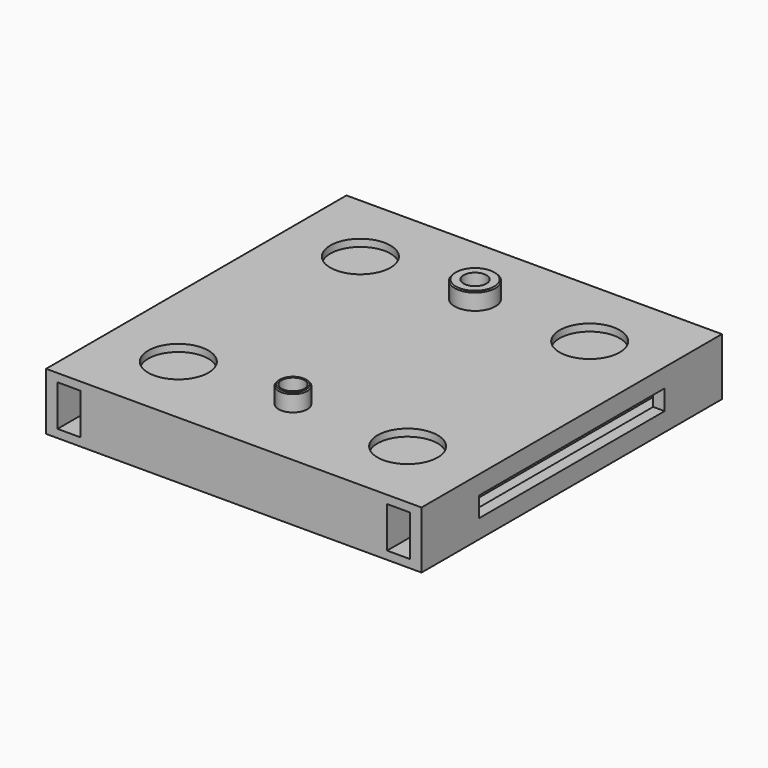
from build123d import *

# Parameters (mm, degrees)
SKETCH_W         = 65.5
SKETCH_H         = 65.5
PAD_DEPTH        = 10
SKETCH001_R      = 3.55
SKETCH001_R_2    = 2.5
PAD001_DEPTH     = 3
SKETCH002_R      = 2
POCKET_DEPTH     = 8
CHAMFER_SIZE     = 0.2
POCKET001_DEPTH  = 2.5
SKETCH004_W      = 40.5
SKETCH004_H      = 3.5
POCKET002_DEPTH  = 2
SKETCH005_W      = 40.5
SKETCH005_H      = 3.5
POCKET003_DEPTH  = 2
SKETCH006_W      = 65.5
SKETCH006_H      = 7.15
POCKET004_DEPTH  = 4
SKETCH007_W      = 65.5
SKETCH007_H      = 7.15
POCKET005_DEPTH  = 4
SKETCH008_R      = 0.925
POCKET006_DEPTH  = 2.15
CHAMFER001_SIZE2 = 0.25
CHAMFER001_SIZE  = 1
SKETCH009_R      = 5.25
POCKET007_DEPTH  = 1.25


with BuildPart() as part:
    # Sketch → Pad (new body)
    with BuildSketch(Plane.XY):
        Rectangle(SKETCH_W, SKETCH_H)
    extrude(amount=PAD_DEPTH)

    # Sketch001 (on Face6 of Pad) → Pad001 (join)
    with BuildSketch(Plane.XY.offset(10)):
        with Locations((0, 19.85)):
            Circle(SKETCH001_R)
        with Locations((0, -19.85)):
            Circle(SKETCH001_R_2)
    extrude(amount=PAD001_DEPTH)

    # Sketch002 (on Face10 of Pad001) → Pocket (cut)
    with BuildSketch(Plane.XY.offset(13)):
        with Locations((0, 19.85)):
            Circle(SKETCH002_R)
        with Locations((0, -19.85)):
            Circle(SKETCH002_R)
    extrude(amount=-POCKET_DEPTH, mode=Mode.SUBTRACT)

    # Chamfer
    chamfer_edges = [part.edges().sort_by_distance(p)[0] for p in [
        (-3.55, 19.85, 13),
        (-2.5, -19.85, 13),
    ]]
    chamfer(chamfer_edges, length=CHAMFER_SIZE)

    # Sketch003 (on DatumPlane) → Pocket001 (cut)
    with BuildSketch(Plane.XY.offset(5)):
        Polygon((-3.650297, 17.7425), (0, 15.635), (3.650297, 17.7425), (3.650297, 21.9575), (0, 24.065), (-3.650297, 21.9575), align=None)
        Polygon((-3.650297, -21.9575), (0, -24.065), (3.650297, -21.9575), (3.650297, -17.7425), (0, -15.635), (-3.650297, -17.7425), align=None)
    extrude(amount=-POCKET001_DEPTH, mode=Mode.SUBTRACT)

    # Sketch004 (on Face7 of Pocket001) → Pocket002 (cut)
    with BuildSketch(Plane.YZ.offset(32.75)):
        with Locations((0, 5)):
            Rectangle(SKETCH004_W, SKETCH004_H)
    extrude(amount=-POCKET002_DEPTH, mode=Mode.SUBTRACT)

    # Sketch005 (on Face6 of Pocket002) → Pocket003 (cut)
    with BuildSketch(Plane(origin=(-32.75, 0, 0), x_dir=(0, -1, 0), z_dir=(-1, 0, 0))):
        with Locations((0, 5)):
            Rectangle(SKETCH005_W, SKETCH005_H)
    extrude(amount=-POCKET003_DEPTH, mode=Mode.SUBTRACT)

    # Sketch006 (on DatumPlane) → Pocket004 (cut)
    with BuildSketch(Plane.YZ.offset(30.75)):
        with Locations((0, 5)):
            Rectangle(SKETCH006_W, SKETCH006_H)
    extrude(amount=-POCKET004_DEPTH, mode=Mode.SUBTRACT)

    # Sketch007 (on DatumPlane) → Pocket005 (cut)
    with BuildSketch(Plane(origin=(-30.75, 0, 0), x_dir=(0, -1, 0), z_dir=(-1, 0, 0))):
        with Locations((0, 5)):
            Rectangle(SKETCH007_W, SKETCH007_H)
    extrude(amount=-POCKET005_DEPTH, mode=Mode.SUBTRACT)

    # Sketch008 (on Face11 of Pocket005) → Pocket006 (cut)
    with BuildSketch(Plane(origin=(0, 0, 0), x_dir=(1, 0, 0), z_dir=(0, 0, -1))):
        with Locations((-25, 25)):
            Circle(SKETCH008_R)
        with Locations((25, 25)):
            Circle(SKETCH008_R)
        with Locations((-25, -25)):
            Circle(SKETCH008_R)
        with Locations((25, -25)):
            Circle(SKETCH008_R)
    extrude(amount=-POCKET006_DEPTH, mode=Mode.SUBTRACT)

    # Chamfer001
    chamfer001_edges = [part.edges().sort_by_distance(p)[0] for p in [
        (-25.925, -25, 0),
        (24.075, -25, 0),
        (-25.925, 25, 0),
        (24.075, 25, 0),
    ]]
    chamfer001_side = part.faces().sort_by_distance((0, 0, 0))[0]
    chamfer(chamfer001_edges, length=CHAMFER001_SIZE, length2=CHAMFER001_SIZE2, reference=chamfer001_side)

    # Sketch009 (on Face11 of Chamfer001) → Pocket007 (cut)
    with BuildSketch(Plane.XY.offset(10)):
        with Locations((-20, 19.85)):
            Circle(SKETCH009_R)
        with Locations((20, 19.85)):
            Circle(SKETCH009_R)
        with Locations((20, -19.85)):
            Circle(SKETCH009_R)
        with Locations((-20, -19.85)):
            Circle(SKETCH009_R)
    extrude(amount=-POCKET007_DEPTH, mode=Mode.SUBTRACT)


solid = part.part
